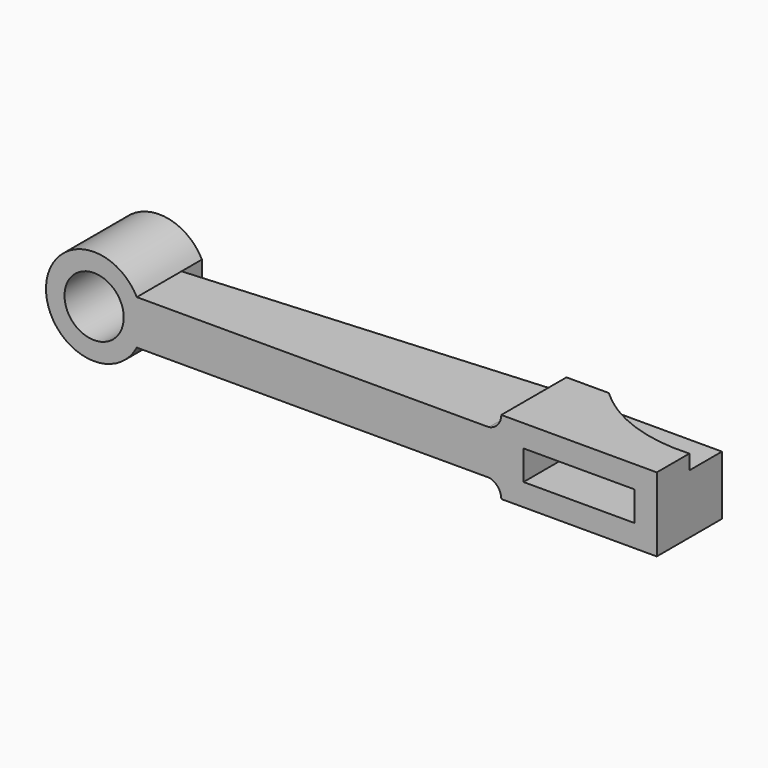
from build123d import *

# Parameters (mm, degrees)
F0_R      = 6.5
F0_R_2    = 4
F1_DEPTH  = 15
F3_DEPTH  = 15
F4_W      = 15
F4_H      = 4
F5_DEPTH  = 15
F7_DEPTH  = 15
F8_DEPTH  = 4
F10_DEPTH = 2
F12_DEPTH = 25


with BuildPart() as f1:
    # F0 (on Front) → F1 (new body)
    with BuildSketch(Plane.XZ):
        Circle(F0_R)
        Circle(F0_R_2, mode=Mode.SUBTRACT)
    extrude(amount=F1_DEPTH)

    # F2 (on face) → F3 (join)
    with BuildSketch(Plane.XZ.offset(15)):
        with BuildLine():
            Line((55, 3), (5.7662812973, 3))
            ThreePointArc((5.7662812973, 3), (6.3139064149, 1.5442104078), (6.5, 0))
            ThreePointArc((6.5, 0), (6.3139064149, -1.5442104078), (5.7662812973, -3))
            Line((5.7662812973, -3), (55, -3))
            Line((55, -3), (55, 3))
        make_face()
    extrude(amount=-F3_DEPTH)

    # F4 (on face) → F5 (join)
    with BuildSketch(Plane.XZ.offset(15)):
        Polygon((55, 3), (55, 0), (55, -2), (55, -3), (55, -5), (76, -5), (76, 5), (55, 5), align=None)
        with Locations((65.5, 0)):
            Rectangle(F4_W, F4_H, mode=Mode.SUBTRACT)
    extrude(amount=-F5_DEPTH)

    # F6 (on face) → F7 (join)
    with BuildSketch(Plane.XZ.offset(15)):
        with BuildLine():
            Line((53.3110045666, 3), (52.6317283511, 3))
            ThreePointArc((52.6317283511, 3), (52.9713664589, 2.9713664589), (53.3110045666, 3))
        make_face()
        with BuildLine():
            ThreePointArc((55, 5), (54.5212624717, 3.691116356), (53.3110045666, 3))
            Line((53.3110045666, 3), (55, 3))
            Line((55, 3), (55, 5))
        make_face()
        with BuildLine():
            Line((52.4075180292, -3), (53.4570770231, -3))
            ThreePointArc((53.4570770231, -3), (52.9322975261, -2.9322975261), (52.4075180292, -3))
        make_face()
        with BuildLine():
            ThreePointArc((53.4570770231, -3), (54.569441592, -3.7370064022), (55, -5))
            Line((55, -5), (55, -3))
            Line((55, -3), (53.4570770231, -3))
        make_face()
    extrude(amount=-F7_DEPTH)

    # F8 (cut): a face of the model
    f8_faces = [f1.faces().sort_by_distance(p)[0] for p in [
        (35.8408790092, -15, 0.0001913982),
    ]]
    extrude(f8_faces, amount=-F8_DEPTH, mode=Mode.SUBTRACT)

    # F9 (on face) → F10 (cut)
    with BuildSketch(Plane.XY.offset(5)):
        with BuildLine():
            Line((76, 0), (60.7132725418, 0))
            ThreePointArc((60.7132725418, 0), (67.787035574, -4.3331510207), (76, -5.5))
            Line((76, -5.5), (76, 0))
        make_face()
    extrude(amount=-F10_DEPTH, mode=Mode.SUBTRACT)

    # F11 (on face) → F12 (cut)
    with BuildSketch(Plane.XY.offset(3)):
        Polygon((5.7662812973, 0), (5.7662812973, -3.4528882243), (53.3110045666, 0), align=None)
    extrude(amount=-F12_DEPTH, mode=Mode.SUBTRACT)


solid = f1.part
